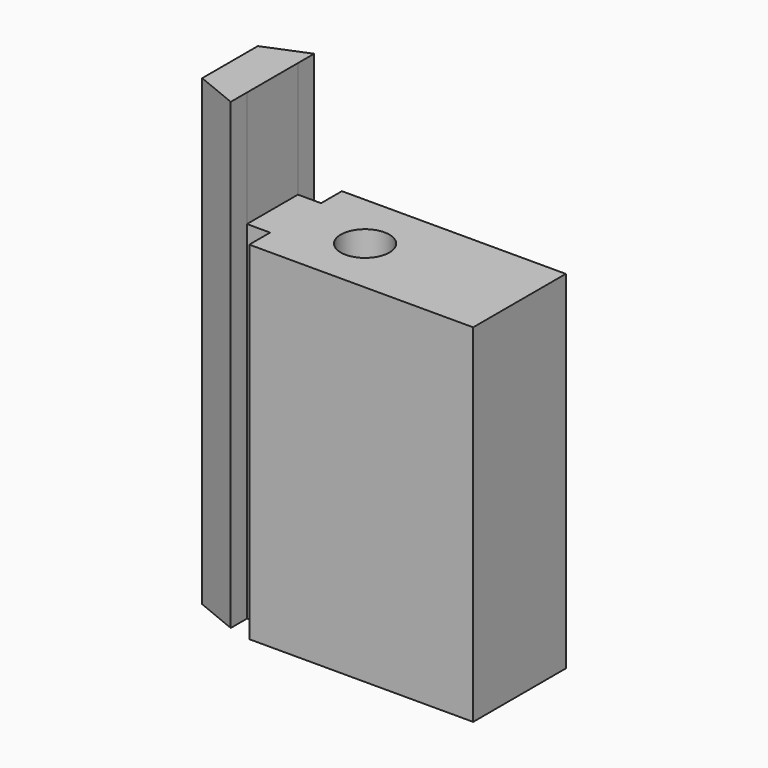
from build123d import *

# Parameters (mm, degrees)
SKETCH_W              = 40
SKETCH_H              = 25
PAD_DEPTH             = 10
POCKET_DEPTH          = 40.001
SKETCH002_R           = 2.1
POCKET001_DEPTH       = 40.001
SKETCH003_W           = 21.335087
SKETCH003_H           = 10
POCKET002_DEPTH       = 10
CLONE_PITCH_ANGLE     = 90
CLONE_PLACEMENT_ANGLE = -90


with BuildPart() as part:
    # Sketch → Pad (new body)
    with BuildSketch(Plane.XY):
        Rectangle(SKETCH_W, SKETCH_H)
    extrude(amount=-PAD_DEPTH)

    # Sketch001 → Pocket (cut, through all)
    with BuildSketch(Plane.YZ.offset(20)):
        Polygon((-8.835087, -0.5), (-8.835087, -2.25), (-6.835087, -2.25), (-6.835087, 0), (-12.5, 0), (-12.5, -2), align=None)
        Polygon((-8.835087, -9.5), (-8.835087, -7.75), (-6.835087, -7.75), (-6.835087, -10), (-12.5, -10), (-12.5, -8), align=None)
    extrude(amount=-POCKET_DEPTH, mode=Mode.SUBTRACT)

    # Sketch002 (on Face5 of Pocket) → Pocket001 (cut, through all)
    with BuildSketch(Plane(origin=(-20, 0, 0), x_dir=(0, -1, 0), z_dir=(-1, 0, 0))):
        with Locations((0.835087, -5)):
            Circle(SKETCH002_R)
    extrude(amount=-POCKET001_DEPTH, mode=Mode.SUBTRACT)

    # Sketch003 (on Face5 of Pocket001) → Pocket002 (cut)
    with BuildSketch(Plane(origin=(-20, 0, 0), x_dir=(0, -1, 0), z_dir=(-1, 0, 0))):
        with Locations((-1.832457, -5)):
            Rectangle(SKETCH003_W, SKETCH003_H)
    extrude(amount=-POCKET002_DEPTH, mode=Mode.SUBTRACT)


with BuildPart() as part_1:
    # Clone pitch: moved
    add(part.part.rotate(Axis((0, 0, 0), (0, 1, 0)), CLONE_PITCH_ANGLE))


with BuildPart() as part_2:
    # Clone placement: moved
    add(part_1.part.moved(Location((-1.832456, -5, -20))).rotate(Axis((-1.832456, -5, -20), (0, 0, 1)), CLONE_PLACEMENT_ANGLE))


solid = part_2.part
